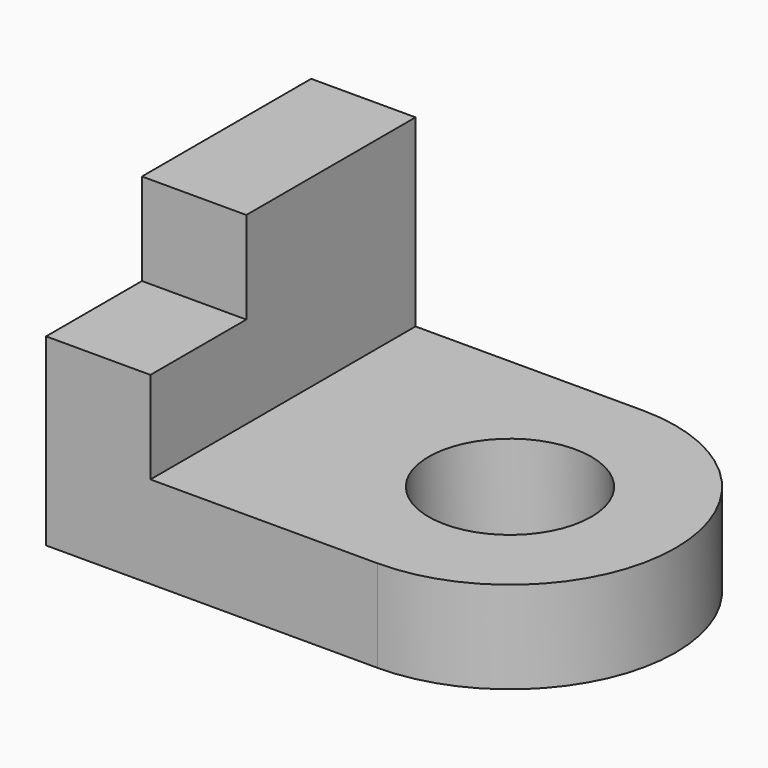
from build123d import *

# Parameters (mm, degrees)
F1_DEPTH = 12.7
F2_W     = 14.398563
F2_H     = 45.72
F3_DEPTH = 12.7
F4_W     = 14.398563
F4_H     = 29.185093
F5_DEPTH = 12.7
F6_R     = 11.2257
F7_DEPTH = 25.4


with BuildPart() as f1:
    # F0 (on Top) → F1 (new body)
    with BuildSketch(Plane.XY):
        with BuildLine():
            Line((-22.86, -22.86), (22.86, -22.86))
            ThreePointArc((22.86, -22.86), (45.72, 0), (22.86, 22.86))
            Line((22.86, 22.86), (-22.86, 22.86))
            Line((-22.86, 22.86), (-22.86, -22.86))
        make_face()
    extrude(amount=F1_DEPTH)

    # F2 (on face) → F3 (join)
    with BuildSketch(Plane.XY.offset(12.7)):
        with Locations((-15.660718, 0)):
            Rectangle(F2_W, F2_H)
    extrude(amount=F3_DEPTH)

    # F4 (on face) → F5 (join)
    with BuildSketch(Plane.XY.offset(25.4)):
        with Locations((-15.660718, 8.267454)):
            Rectangle(F4_W, F4_H)
    extrude(amount=F5_DEPTH)

    # F6 (on face) → F7 (cut)
    with BuildSketch(Plane.XY.offset(12.7)):
        with Locations((22.86, 0)):
            Circle(F6_R)
    extrude(amount=-F7_DEPTH, mode=Mode.SUBTRACT)


solid = f1.part
